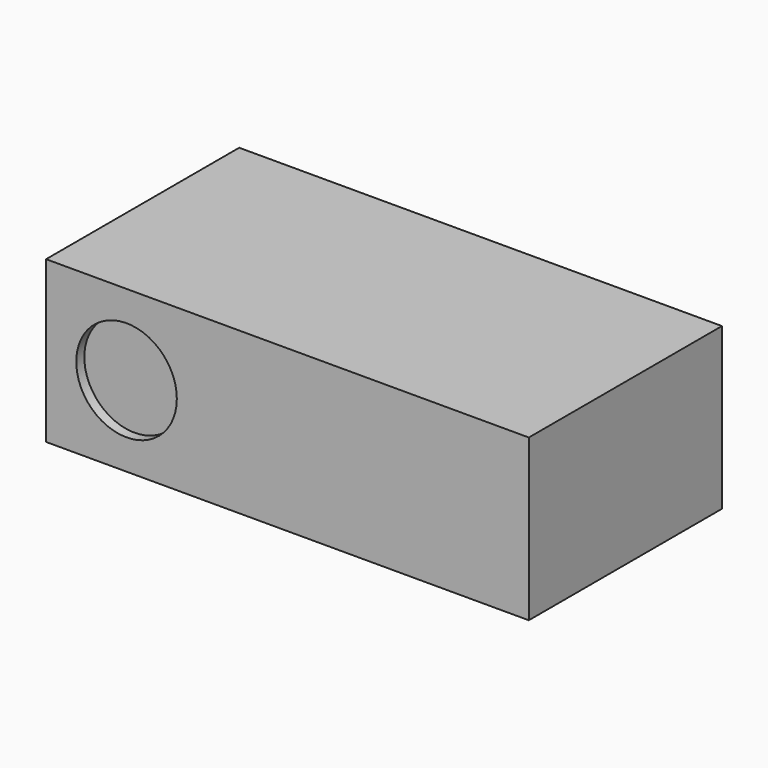
from build123d import *

# Parameters (mm, degrees)
F0_W     = 152.4
F0_H     = 50.8
F1_DEPTH = 76.2
F3_DEPTH = 3.175


with BuildPart() as f1:
    # F0 (on Front) → F1 (new body)
    with BuildSketch(Plane.XZ):
        Rectangle(F0_W, F0_H)
    extrude(amount=F1_DEPTH)

    # F2 (on face) → F3 (cut)
    with BuildSketch(Plane.XZ.offset(76.2)):
        with BuildLine():
            ThreePointArc((-66.675, 0), (-50.8, -15.875), (-34.925, 0))
            ThreePointArc((-34.925, 0), (-50.8, 15.875), (-66.675, 0))
        make_face()
    extrude(amount=-F3_DEPTH, mode=Mode.SUBTRACT)


solid = f1.part
